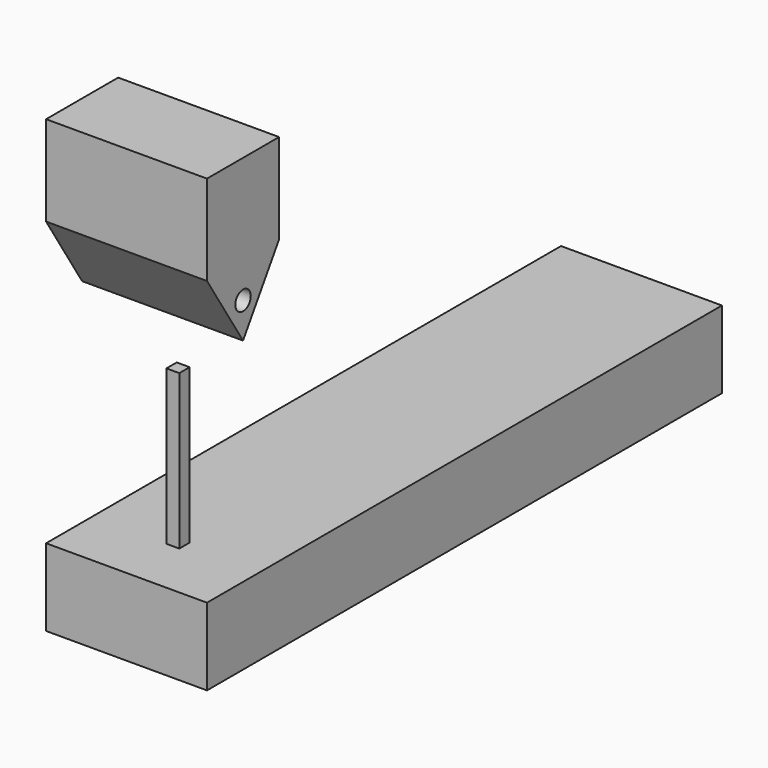
from build123d import *

# Parameters (mm, degrees)
F0_W          = 177.8
F0_H          = 177.8
F0_R          = 19.05
F1_DEPTH      = 158.75
F1_DEPTH_BACK = 158.75
F0_W_2        = 25.4
F0_H_2        = 304.8
F2_DEPTH      = 12.7
F2_DEPTH_BACK = 12.7


with BuildPart() as f1:
    # F0 (on Right) → F1 (new body, two sides)
    with BuildSketch(Plane.YZ) as f1_sk:
        with Locations((88.9, 647.7)):
            Rectangle(F0_W, F0_H)
        Polygon((177.8, 558.8), (0, 558.8), (88.9, 419.1), align=None)
        with Locations((88.9, 488.95)):
            Circle(F0_R, mode=Mode.SUBTRACT)
        Polygon((114.3, 0), (0, 0), (0, -152.4), (1270, -152.4), (1270, 0), (139.7, 0), align=None)
    extrude(amount=F1_DEPTH)
    extrude(f1_sk.sketch, amount=-F1_DEPTH_BACK)

    # F0 (on Right) → F2 (join, two sides)
    with BuildSketch(Plane.YZ) as f2_sk:
        with Locations((127, 152.4)):
            Rectangle(F0_W_2, F0_H_2)
    extrude(amount=F2_DEPTH)
    extrude(f2_sk.sketch, amount=-F2_DEPTH_BACK)


solid = f1.part
